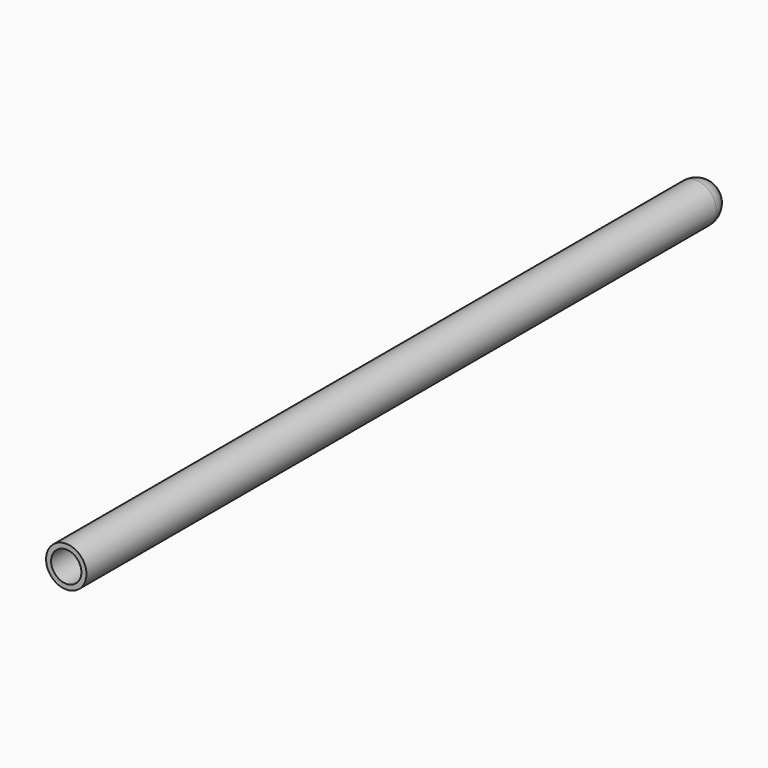
from build123d import *

# Parameters (mm, degrees)
F0_R     = 12.7
F1_DEPTH = 508
F2_R     = 12.7
F3_T     = -3.175


with BuildPart() as f1:
    # F0 (on Front) → F1 (new body)
    with BuildSketch(Plane.XZ):
        Circle(F0_R)
    extrude(amount=-F1_DEPTH)

    # F2
    f2_edges = [f1.edges().sort_by_distance(p)[0] for p in [
        (-12.7, 508, 0),
    ]]
    fillet(f2_edges, radius=F2_R)

    # F3
    f3_openings = [f1.faces().sort_by_distance(p)[0] for p in [
        (0, 0, 0),
    ]]
    offset(amount=F3_T, openings=f3_openings)


solid = f1.part
